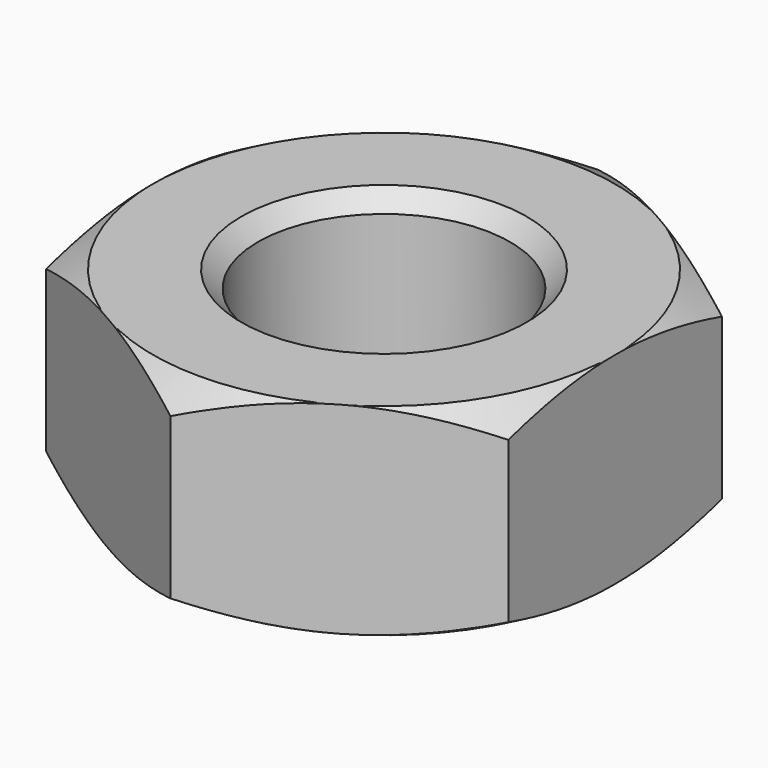
from build123d import *

# Parameters (mm, degrees)
SKETCH018_R     = 4.175426
POCKET007_DEPTH = 2.401
SKETCH017_R     = 1.5
POCKET008_DEPTH = 2.401
CHAMFER008_SIZE = 0.2


with BuildPart() as part:
    # Sketch013 → Revolution008 (revolve)
    with BuildSketch(Plane.XZ):
        Polygon((0, 2.4), (2.75, 2.4), (3.175, 2.154626), (3.175, 0.245374), (2.75, 0), (0, 0), align=None)
    revolve(axis=Axis((0, 0, 0), (0, 0, 1)))

    # Sketch018 (on Face3 of Revolution008) → Pocket007 (cut, through all)
    with BuildSketch(Plane(origin=(0, 0, 2.4), x_dir=(-1, 0, 0), z_dir=(0, 0, 1))):
        Circle(SKETCH018_R)
        Polygon((-2.75, 1.587713), (0, 3.175426), (2.75, 1.587713), (2.75, -1.587713), (0, -3.175426), (-2.75, -1.587713), align=None, mode=Mode.SUBTRACT)
    extrude(amount=-POCKET007_DEPTH, mode=Mode.SUBTRACT)

    # Sketch017 (on Face16 of Pocket007) → Pocket008 (cut, through all)
    with BuildSketch(Plane(origin=(0, 0, 2.4), x_dir=(-1, 0, 0), z_dir=(0, 0, 1))):
        Circle(SKETCH017_R)
    extrude(amount=-POCKET008_DEPTH, mode=Mode.SUBTRACT)

    # Chamfer008
    chamfer008_edges = [part.edges().sort_by_distance(p)[0] for p in [
        (1.5, 0, 2.4),
        (1.5, 0, 0),
    ]]
    chamfer(chamfer008_edges, length=CHAMFER008_SIZE)


solid = part.part
